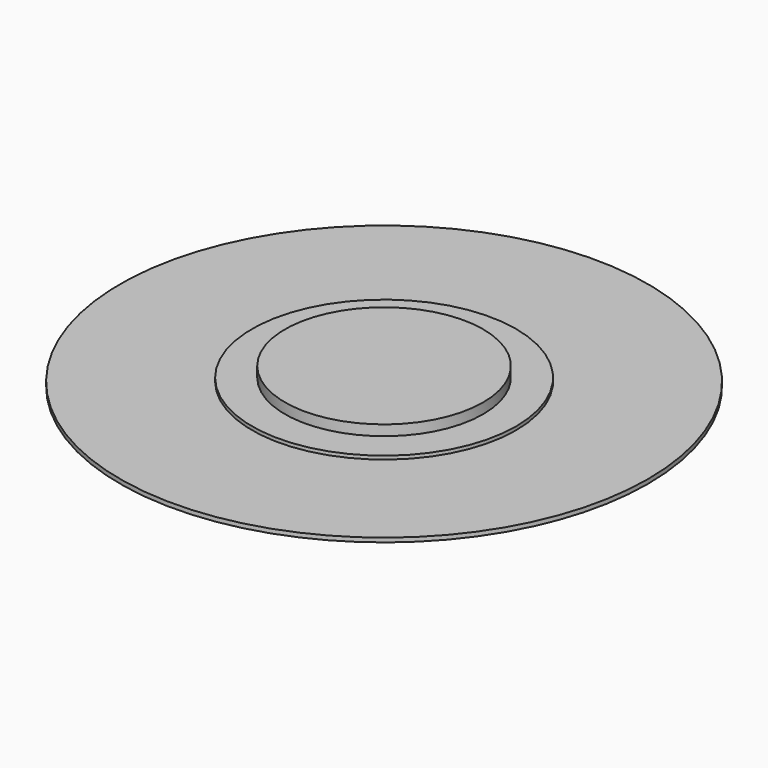
from build123d import *

# Parameters (mm, degrees)
F0_R     = 19.05
F0_R_2   = 9.525
F1_DEPTH = 0.303999
F0_R_3   = 7.1501
F2_DEPTH = 0.553999
F3_DEPTH = 1.303999


with BuildPart() as f1:
    # F0 (on Top) → F1 (new body)
    with BuildSketch(Plane.XY):
        Circle(F0_R)
        Circle(F0_R_2, mode=Mode.SUBTRACT)
    extrude(amount=F1_DEPTH)

    # F0 (on Top) → F2 (join)
    with BuildSketch(Plane.XY):
        Circle(F0_R_2)
        Circle(F0_R_3, mode=Mode.SUBTRACT)
    extrude(amount=F2_DEPTH)

    # F0 (on Top) → F3 (join)
    with BuildSketch(Plane.XY):
        Circle(F0_R_3)
    extrude(amount=F3_DEPTH)


solid = f1.part
